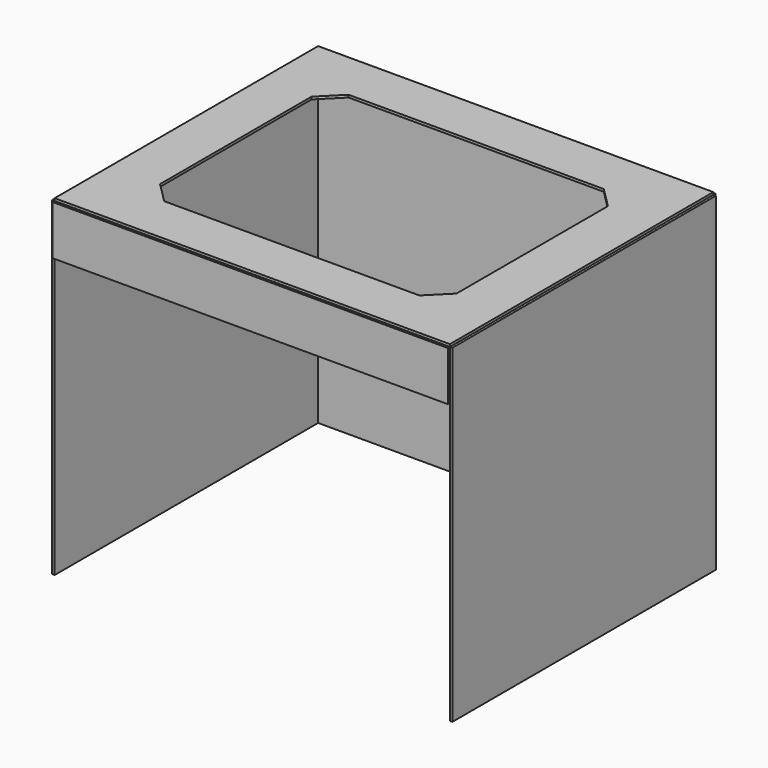
from build123d import *

# Parameters (mm, degrees)
F4_W      = 480
F4_H      = 400
F4_W_2    = 360
F4_H_2    = 280
F13_DEPTH = 3
F14_SIZE  = 25
F6_W      = 400
F6_H      = 400
F15_DEPTH = 3
F10_W     = 400
F10_H     = 400
F16_DEPTH = 3
F8_W      = 480
F8_H      = 400
F17_DEPTH = 3
F12_W     = 480
F12_H     = 60
F18_DEPTH = 3


with BuildPart() as f13:
    # F4 (on plane+point) → F13 (new body)
    with BuildSketch(Plane.XY.offset(400)):
        Rectangle(F4_W, F4_H)
        Rectangle(F4_W_2, F4_H_2, mode=Mode.SUBTRACT)
    extrude(amount=F13_DEPTH)

    # F14
    f14_edges = [f13.edges().sort_by_distance(p)[0] for p in [
        (-180, -140, 401.5),
        (-180, 140, 401.5),
        (180, 140, 401.5),
        (180, -140, 401.5),
    ]]
    chamfer(f14_edges, length=F14_SIZE)


with BuildPart() as f15:
    # F6 (on plane+point) → F15 (new body)
    with BuildSketch(Plane.YZ.offset(-240)):
        with Locations((0, 200)):
            Rectangle(F6_W, F6_H)
    extrude(amount=-F15_DEPTH)


with BuildPart() as f16:
    # F10 (on plane+point) → F16 (new body)
    with BuildSketch(Plane.YZ.offset(240)):
        with Locations((0, 200)):
            Rectangle(F10_W, F10_H)
    extrude(amount=F16_DEPTH)


with BuildPart() as f17:
    # F8 (on plane+point) → F17 (new body)
    with BuildSketch(Plane.XZ.offset(-200)):
        with Locations((0, 200)):
            Rectangle(F8_W, F8_H)
    extrude(amount=-F17_DEPTH)


with BuildPart() as f18:
    # F12 (on plane+point) → F18 (new body)
    with BuildSketch(Plane.XZ.offset(200)):
        with Locations((0, 370)):
            Rectangle(F12_W, F12_H)
    extrude(amount=F18_DEPTH)


solid = Compound([f13.part, f15.part, f16.part, f17.part, f18.part])
